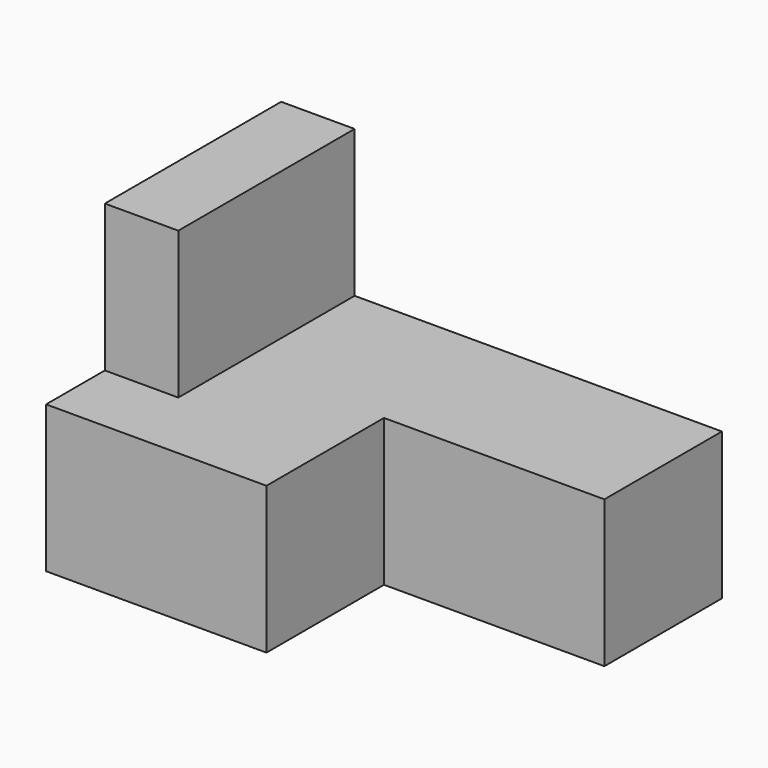
from build123d import *

# Parameters (mm, degrees)
F0_W     = 152.4
F0_H     = 101.6
F1_DEPTH = 50.8
F2_W     = 25.4
F2_H     = 76.2
F3_DEPTH = 50.8
F4_W     = 76.2
F4_H     = 50.8
F5_DEPTH = 50.801


with BuildPart() as f1:
    # F0 (on Top) → F1 (new body)
    with BuildSketch(Plane.XY):
        with Locations((76.2, -50.8)):
            Rectangle(F0_W, F0_H)
    extrude(amount=F1_DEPTH)

    # F2 (on face) → F3 (join)
    with BuildSketch(Plane.XY.offset(50.8)):
        with Locations((12.7, -38.1)):
            Rectangle(F2_W, F2_H)
    extrude(amount=F3_DEPTH)

    # F4 (on face) → F5 (cut, through all)
    with BuildSketch(Plane.XY.offset(50.8)):
        with Locations((114.3, -76.2)):
            Rectangle(F4_W, F4_H)
    extrude(amount=-F5_DEPTH, mode=Mode.SUBTRACT)


solid = f1.part
